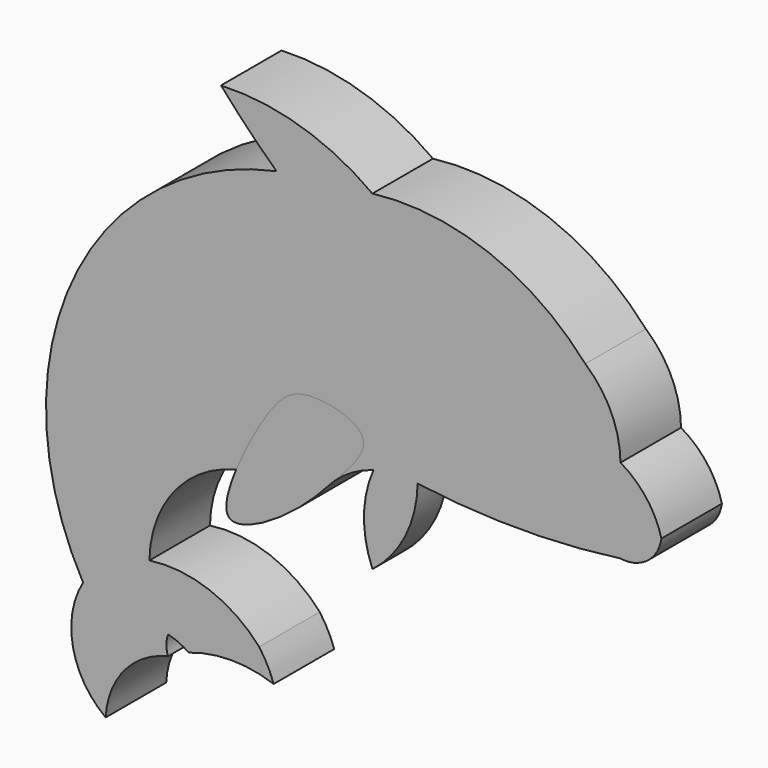
from build123d import *

# Parameters (mm, degrees)
F1_DEPTH = 12.7
F2_DEPTH = 19.05
F3_DEPTH = 6.35
F5_R     = 3.6248039948
F5_R_2   = 1.2512021704
F6_DEPTH = 6.35


with BuildPart() as f1:
    # F0 (on Front) → F1 (new body)
    with BuildSketch(Plane.XZ):
        with BuildLine():
            ThreePointArc((3.6792367881, 49.9169032008), (-8.3714505444, 55.9456389307), (-21.7398665845, 57.6338842511))
            ThreePointArc((-21.7398665845, 57.6338842511), (-17.2066275709, 52.6840836236), (-12.4139599502, 47.9850284755))
            ThreePointArc((-12.4139599502, 47.9850284755), (-46.7523372832, 20.5487057905), (-44.891897589, -23.3650133014))
            ThreePointArc((-44.891897589, -23.3650133014), (-46.5929180297, -33.447587322), (-41.1038920283, -42.0744270086))
            ThreePointArc((-41.1038920283, -42.0744270086), (-37.9642107868, -34.0867740006), (-30.6363515556, -29.6188127249))
            ThreePointArc((-30.6363515556, -29.6188127249), (-30.9094767042, -28.0005410314), (-30.6363515556, -26.3822693378))
            ThreePointArc((-30.6363515556, -26.3822693378), (-28.8195798251, -26.993220688), (-27.157433331, -27.9477834702))
            ThreePointArc((-27.157433331, -27.9477834702), (-20.025646314, -26.7343709555), (-12.893859297, -27.9477834702))
            ThreePointArc((-12.893859297, -27.9477834702), (-13.929931433, -25.5053748509), (-15.3291048482, -23.251241073))
            ThreePointArc((-15.3291048482, -23.251241073), (-23.6910290452, -17.5446532004), (-33.757558417, -16.471383509))
            ThreePointArc((-33.757558417, -16.471383509), (-29.5915011142, -4.9043217533), (-19.2087225, 1.6798151954))
            add(Edge.make_bspline(
                [(-19.2087225, 1.6798151954), (-17.8035989361, 5.0993095075), (-12.9843550668, 14.0212240186), (-7.8855104028, 17.9193437917), (5.978054798, 14.2401710297), (-0.3556607342, 7.8370366801), (-2.6167130563, 5.4628192447)],
                knots=[0.4693639104, 0.4693639104, 0.4693639104, 0.4693639104, 0.5753147778, 0.7155774859, 0.8585528337, 1, 1, 1, 1], degree=3))
            ThreePointArc((-2.6167130563, 5.4628192447), (0.4074846807, 7.6605040117), (3.8513593173, 9.1149172183))
            ThreePointArc((3.8513593173, 9.1149172183), (7.5353733419, 9.7502367875), (11.2674701959, 9.533341974))
            ThreePointArc((11.2674701959, 9.533341974), (28.2952608541, 8.3754906243), (45.3230515122, 9.533341974))
            ThreePointArc((45.3230515122, 9.533341974), (49.8347672661, 10.6915533806), (52.1864928305, 14.7123020142))
            ThreePointArc((52.1864928305, 14.7123020142), (49.6603027565, 19.8976409705), (45.3230515122, 23.69995974))
            ThreePointArc((45.3230515122, 23.69995974), (43.744069298, 30.6783005478), (39.4158102572, 36.3753698766))
            ThreePointArc((39.4158102572, 36.3753698766), (23.2169735976, 47.5518728634), (3.6792367881, 49.9169032008))
        make_face()
    extrude(amount=-F1_DEPTH)

    # F0 (on Front) → F3 (join)
    with BuildSketch(Plane.XZ):
        with BuildLine():
            ThreePointArc((3.6792367881, -5.5825185497), (9.1964480863, 1.1104100839), (11.2674701959, 9.533341974))
            ThreePointArc((11.2674701959, 9.533341974), (7.5353733419, 9.7502367875), (3.8513593173, 9.1149172183))
            ThreePointArc((3.8513593173, 9.1149172183), (2.263816376, 1.783783274), (3.6792367881, -5.5825185497))
        make_face()
    extrude(amount=-F3_DEPTH)

    # F5 (on offset) → F6 (cut)
    with BuildSketch(Plane.XZ.offset(-12.7)):
        with BuildLine():
            ThreePointArc((44.8446720839, 12.6342503354), (41.4374676394, 13.4343825506), (38.495644927, 15.3304133564))
            ThreePointArc((38.495644927, 15.3304133564), (41.1518693605, 12.7618448684), (44.8446720839, 12.6342503354))
        make_face()
        with Locations((33.5381813347, 27.593607083)):
            Circle(F5_R)
        with Locations((33.5381813347, 27.593607083)):
            Circle(F5_R_2, mode=Mode.SUBTRACT)
    extrude(amount=F6_DEPTH, mode=Mode.SUBTRACT)


with BuildPart() as f2:
    # F0 (on Front) → F2 (new body)
    with BuildSketch(Plane.XZ):
        with BuildLine():
            add(Edge.make_bspline(
                [(-2.6167130563, 5.4628192447), (-4.7019735301, 3.2731919965), (-7.5632549592, 0.0432873706), (-15.8032888039, -5.9553797603), (-21.9008513765, -6.7839396137), (-20.4588982524, -1.3625997096), (-19.2087225, 1.6798151954)],
                knots=[0, 0, 0, 0, 0.13044996, 0.2807897566, 0.3750966097, 0.4693639104, 0.4693639104, 0.4693639104, 0.4693639104], degree=3))
            add(Edge.make_bspline(
                [(-19.2087225, 1.6798151954), (-17.8035989361, 5.0993095075), (-12.9843550668, 14.0212240186), (-7.8855104028, 17.9193437917), (5.978054798, 14.2401710297), (-0.3556607342, 7.8370366801), (-2.6167130563, 5.4628192447)],
                knots=[0.4693639104, 0.4693639104, 0.4693639104, 0.4693639104, 0.5753147778, 0.7155774859, 0.8585528337, 1, 1, 1, 1], degree=3))
        make_face()
    extrude(amount=-F2_DEPTH)


solid = Compound([f1.part, f2.part])
